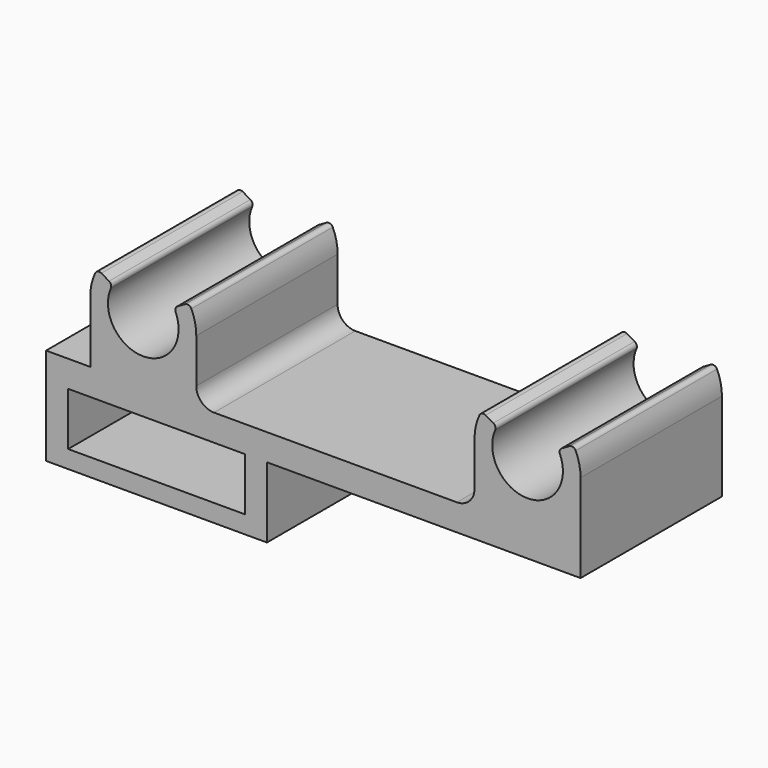
from build123d import *

# Parameters (mm, degrees)
F0_W      = 54.5
F0_H      = 20
F1_DEPTH  = 3
F3_DEPTH  = 10
F4_R      = 2
F5_R      = 0.5
F7_DEPTH  = 10
F9_DEPTH  = 20
F10_W     = 6
F10_H     = 6
F11_DEPTH = 8


with BuildPart() as f1:
    # F0 (on Top) → F1 (new body)
    with BuildSketch(Plane.XY):
        Rectangle(F0_W, F0_H)
    extrude(amount=F1_DEPTH)

    # F2 (on Front) → F3 (join, symmetric)
    with BuildSketch(Plane.XZ):
        with BuildLine():
            Line((-15.75, 0), (-15.75, 10))
            ThreePointArc((-15.75, 10), (-15.9544450423, 11.5529142706), (-16.5538475773, 13))
            Line((-16.5538475773, 13), (-18.2858983849, 12))
            ThreePointArc((-18.2858983849, 12), (-21.75, 6), (-25.2141016151, 12))
            Line((-25.2141016151, 12), (-26.9461524227, 13))
            ThreePointArc((-26.9461524227, 13), (-27.5455549577, 11.5529142706), (-27.75, 10))
            Line((-27.75, 10), (-27.75, 0))
            Line((-27.75, 0), (-15.75, 0))
        make_face()
        with BuildLine():
            ThreePointArc((25.2141016151, 12), (21.75, 6), (18.2858983849, 12))
            Line((18.2858983849, 12), (16.5538475773, 13))
            ThreePointArc((16.5538475773, 13), (15.9544450423, 11.5529142706), (15.75, 10))
            Line((15.75, 10), (15.75, 0))
            Line((15.75, 0), (27.75, 0))
            Line((27.75, 0), (27.75, 10))
            ThreePointArc((27.75, 10), (27.5455549577, 11.5529142706), (26.9461524227, 13))
            Line((26.9461524227, 13), (25.2141016151, 12))
        make_face()
    extrude(amount=F3_DEPTH, both=True)

    # F4
    f4_edges = [f1.edges().sort_by_distance(p)[0] for p in [
        (-15.75, 0, 3),
        (15.75, 0, 3),
    ]]
    fillet(f4_edges, radius=F4_R)

    # F5
    f5_edges = [f1.edges().sort_by_distance(p)[0] for p in [
        (-26.946152, 0, 13),
        (-25.214102, 0, 12),
        (-18.285898, 0, 12),
        (-16.553848, 0, 13),
        (18.285898, 0, 12),
        (16.553848, 0, 13),
        (25.214102, 0, 12),
        (26.946152, 0, 13),
    ]]
    fillet(f5_edges, radius=F5_R)

    # F6 (on Front) → F7 (join, symmetric)
    with BuildSketch(Plane.XZ):
        Polygon((-7.75, -8), (-7.75, 0), (-10.25, 0), (-10.25, -6), (-30.25, -6), (-30.25, 0), (-32.75, 0), (-32.75, -8), align=None)
    extrude(amount=F7_DEPTH, both=True)

    # F8 (on face) → F9 (join)
    with BuildSketch(Plane.XZ.offset(10)):
        Polygon((-30.25, 0), (-27.75, 0), (-27.75, 3), (-32.75, 3), (-32.75, 0), align=None)
    extrude(amount=-F9_DEPTH)

    # F10 (on face) → F11 (join)
    with BuildSketch(Plane(origin=(0, 10, 0), x_dir=(-1, 0, 0), z_dir=(0, 1, 0))):
        with Locations((13.25, -3)):
            Rectangle(F10_W, F10_H)
    extrude(amount=-F11_DEPTH)


solid = f1.part
